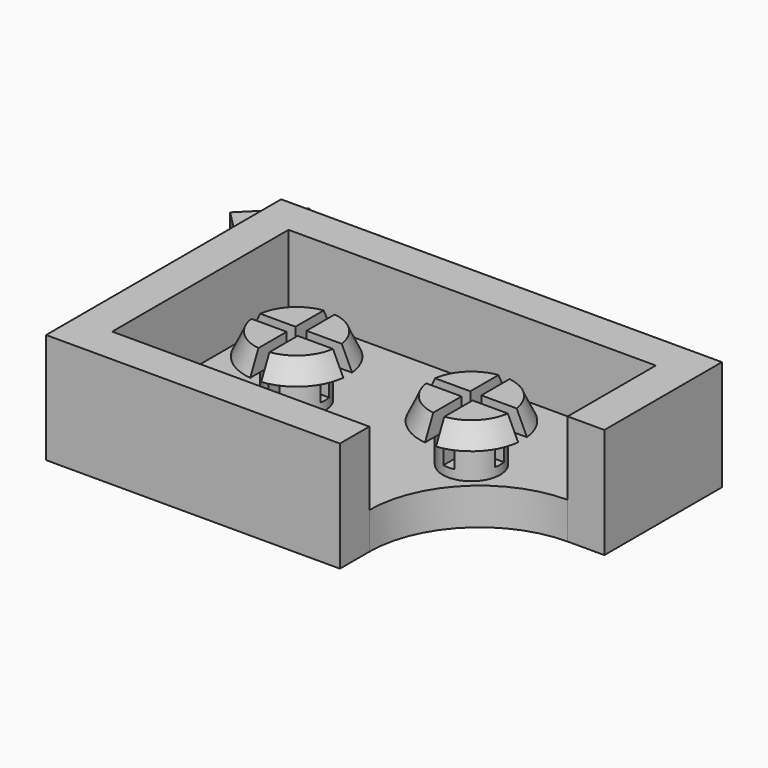
from build123d import *

# Parameters (mm, degrees)
F0_W      = 60
F0_H      = 40
F1_DEPTH  = 5
F2_W      = 5
F2_H      = 30
F3_DEPTH  = 10
F5_DEPTH  = 25
F6_R      = 3.9
F7_DEPTH  = 5.2
F8_R      = 7
F9_DEPTH  = 3
F9_TAPER  = 25
F10_W     = 1.5
F10_H     = 1.5
F10_W_2   = 7.1590355843
F10_H_2   = 7.6815277636
F11_DEPTH = 7
F12_DEPTH = 7
F14_DEPTH = 8
F15_R     = 3
F16_DEPTH = 25


with BuildPart() as f1:
    # F0 (on Top) → F1 (new body)
    with BuildSketch(Plane.XY):
        Rectangle(F0_W, F0_H)
    extrude(amount=F1_DEPTH)

    # F2 (on face) → F3 (join)
    with BuildSketch(Plane.XY.offset(5)):
        Polygon((30, 20), (-30, 20), (-30, 15), (-25, 15), (25, 15), (30, 15), align=None)
        with Locations((-27.5, 0)):
            Rectangle(F2_W, F2_H)
        Polygon((30, -20), (30, 15), (25, 15), (25, -15), (25, -20), align=None)
        Polygon((-25, -15), (-30, -15), (-30, -20), (25, -20), (25, -15), align=None)
    extrude(amount=F3_DEPTH)

    # F4 (on face) → F5 (cut)
    with BuildSketch(Plane(origin=(0, 0, 0), x_dir=(1, 0, 0), z_dir=(0, 0, -1))):
        with BuildLine():
            Line((25, 0), (30, 0))
            Line((30, 0), (30, 20))
            Line((30, 20), (10, 20))
            Line((10, 20), (10, 15))
            ThreePointArc((10, 15), (14.3933982822, 4.3933982822), (25, 0))
        make_face()
    extrude(amount=-F5_DEPTH, mode=Mode.SUBTRACT)

    # F6 (on face) → F7 (join)
    with BuildSketch(Plane.XY.offset(5)):
        with Locations((11.9, 0)):
            Circle(F6_R)
        with Locations((-11.9, 0)):
            Circle(F6_R)
    extrude(amount=F7_DEPTH)

    # F8 (on face) → F9 (join)
    with BuildSketch(Plane.XY.offset(10.2)):
        with Locations((-11.9, 0)):
            Circle(F8_R)
        with Locations((11.9, 0)):
            Circle(F8_R)
    extrude(amount=F9_DEPTH, taper=F9_TAPER)

    # F10 (on face) → F11 (cut)
    with BuildSketch(Plane.XY.offset(13.2)):
        Polygon((-11.15, 7.5554959476), (-11.9, 7.5554959476), (-12.65, 7.5554959476), (-12.65, 0.75), (-11.15, 0.75), align=None)
        Polygon((-2.854565857, 0.75), (-11.15, 0.75), (-11.15, -0.75), (-2.854565857, -0.75), (-2.854565857, 0), align=None)
        with Locations((-11.9, 0)):
            Rectangle(F10_W, F10_H)
        with Locations((-16.2295177922, 0)):
            Rectangle(F10_W_2, F10_H)
        with Locations((-11.9, -4.5907638818)):
            Rectangle(F10_W, F10_H_2)
        Polygon((12.65, 0.75), (12.65, 7.5554959476), (11.9, 7.5554959476), (11.15, 7.5554959476), (11.15, 0.75), align=None)
        with Locations((16.2295177922, 0)):
            Rectangle(F10_W_2, F10_H)
        with Locations((11.9, 0)):
            Rectangle(F10_W, F10_H)
        with Locations((11.9, -4.5907638818)):
            Rectangle(F10_W, F10_H_2)
        Polygon((11.15, -0.75), (11.15, 0.75), (2.854565857, 0.75), (2.854565857, 0), (2.854565857, -0.75), align=None)
    extrude(amount=-F11_DEPTH, mode=Mode.SUBTRACT)

    # F10 (on face) → F12 (cut)
    with BuildSketch(Plane.XY.offset(13.2)):
        Polygon((-11.15, 7.5554959476), (-11.9, 7.5554959476), (-12.65, 7.5554959476), (-12.65, 0.75), (-11.15, 0.75), align=None)
        Polygon((-2.854565857, 0.75), (-11.15, 0.75), (-11.15, -0.75), (-2.854565857, -0.75), (-2.854565857, 0), align=None)
        with Locations((-11.9, 0)):
            Rectangle(F10_W, F10_H)
        with Locations((-16.2295177922, 0)):
            Rectangle(F10_W_2, F10_H)
        with Locations((-11.9, -4.5907638818)):
            Rectangle(F10_W, F10_H_2)
        Polygon((12.65, 0.75), (12.65, 7.5554959476), (11.9, 7.5554959476), (11.15, 7.5554959476), (11.15, 0.75), align=None)
        with Locations((16.2295177922, 0)):
            Rectangle(F10_W_2, F10_H)
        with Locations((11.9, 0)):
            Rectangle(F10_W, F10_H)
        with Locations((11.9, -4.5907638818)):
            Rectangle(F10_W, F10_H_2)
        Polygon((11.15, -0.75), (11.15, 0.75), (2.854565857, 0.75), (2.854565857, 0), (2.854565857, -0.75), align=None)
    extrude(amount=-F12_DEPTH, mode=Mode.SUBTRACT)

    # F13 (on face) → F14 (join)
    with BuildSketch(Plane(origin=(0, 0, 0), x_dir=(1, 0, 0), z_dir=(0, 0, -1))):
        Polygon((-23.4916425814, -19.4916425814), (-29.4916425814, -13.4916425814), (-37.225079692, -21.225079692), (-31.225079692, -27.225079692), align=None)
        Polygon((-31.225079692, -27.225079692), (-37.225079692, -21.225079692), (-40.7606135979, -24.7606135979), (-34.7606135979, -30.7606135979), align=None)
    extrude(amount=-F14_DEPTH)

    # F15 (on face) → F16 (cut)
    with BuildSketch(Plane.XY.offset(8)):
        with Locations((-34.1515289412, 24.1206135979)):
            Circle(F15_R)
    extrude(amount=-F16_DEPTH, mode=Mode.SUBTRACT)


solid = f1.part
